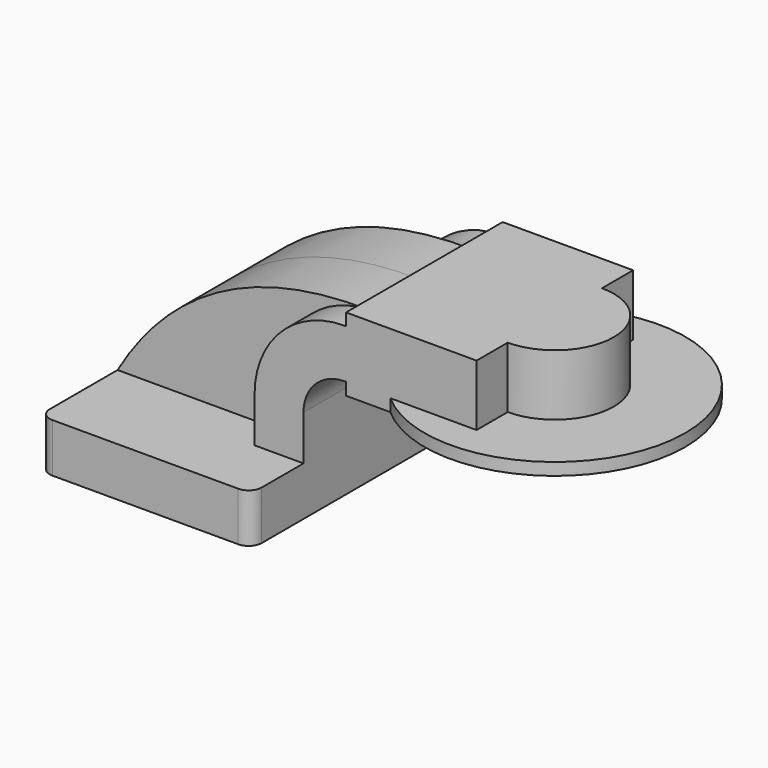
from build123d import *

# Parameters (mm, degrees)
F1_DEPTH = 63.5
F2_DEPTH = 25.4
F0_W     = 27.8559744183
F0_H     = 4.7498
F0_H_2   = 19.05
F3_DEPTH = 38.1
F4_DEPTH = 25.4
F6_R     = 5.08


with BuildPart() as f1:
    # F0 (on Front) → F1 (new body, symmetric)
    with BuildSketch(Plane.XZ):
        Polygon((-41.275, 9.525), (-41.275, -9.525), (41.275, -9.525), (41.275, 9.525), (22.225, 9.525), align=None)
    extrude(amount=F1_DEPTH, both=True)

    # F0 (on Front) → F2 (join, symmetric)
    with BuildSketch(Plane.XZ):
        with BuildLine():
            add(Edge.make_bspline(
                [(-41.275, 9.525), (-19.7094231844, 46.5213470161), (14.027427882, 62.8570914268), (57.15, 61.9252)],
                knots=[0, 0, 0, 0, 111.5045361635, 111.5045361635, 111.5045361635, 111.5045361635], degree=3))
            Line((-41.275, 9.525), (22.225, 9.525))
            Line((22.225, 9.525), (22.225, 27.0002))
            ThreePointArc((22.225, 27.0002), (32.4542956671, 51.6959043329), (57.15, 61.9252))
        make_face()
    extrude(amount=F2_DEPTH, both=True)

    # F0 (on Front) → F3 (join, symmetric)
    with BuildSketch(Plane.XZ):
        Polygon((85.725, 42.8752), (57.8690255817, 42.8752), (57.8690255817, 38.1), (108.6690255817, 38.1), (108.6690255817, 66.675), (85.725, 66.675), (85.725, 61.9252), align=None)
        with BuildLine():
            Line((22.225, 9.525), (41.275, 9.525))
            Line((41.275, 9.525), (41.275, 27.0002))
            ThreePointArc((41.275, 27.0002), (45.9246798487, 38.2255201513), (57.15, 42.8752))
            Line((57.15, 42.8752), (57.8690255817, 42.8752))
            Line((57.8690255817, 42.8752), (57.8690255817, 61.9252))
            Line((57.8690255817, 61.9252), (57.15, 61.9252))
            ThreePointArc((57.15, 61.9252), (32.4542956671, 51.6959043329), (22.225, 27.0002))
            Line((22.225, 27.0002), (22.225, 9.525))
        make_face()
        with Locations((71.7970127909, 64.3001)):
            Rectangle(F0_W, F0_H)
        with Locations((71.7970127909, 52.4002)):
            Rectangle(F0_W, F0_H_2)
    extrude(amount=F3_DEPTH, both=True)

    # F0 (on Front) → F4 (join)
    with BuildSketch(Plane.XZ):
        Polygon((-41.275, 9.525), (-41.275, -9.525), (41.275, -9.525), (41.275, 9.525), (22.225, 9.525), align=None)
        with BuildLine():
            add(Edge.make_bspline(
                [(-41.275, 9.525), (-19.7094231844, 46.5213470161), (14.027427882, 62.8570914268), (57.15, 61.9252)],
                knots=[0, 0, 0, 0, 111.5045361635, 111.5045361635, 111.5045361635, 111.5045361635], degree=3))
            Line((-41.275, 9.525), (22.225, 9.525))
            Line((22.225, 9.525), (22.225, 27.0002))
            ThreePointArc((22.225, 27.0002), (32.4542956671, 51.6959043329), (57.15, 61.9252))
        make_face()
        with BuildLine():
            Line((22.225, 9.525), (41.275, 9.525))
            Line((41.275, 9.525), (41.275, 27.0002))
            ThreePointArc((41.275, 27.0002), (45.9246798487, 38.2255201513), (57.15, 42.8752))
            Line((57.15, 42.8752), (57.8690255817, 42.8752))
            Line((57.8690255817, 42.8752), (57.8690255817, 61.9252))
            Line((57.8690255817, 61.9252), (57.15, 61.9252))
            ThreePointArc((57.15, 61.9252), (32.4542956671, 51.6959043329), (22.225, 27.0002))
            Line((22.225, 27.0002), (22.225, 9.525))
        make_face()
        with Locations((71.7970127909, 52.4002)):
            Rectangle(F0_W, F0_H_2)
        with Locations((71.7970127909, 64.3001)):
            Rectangle(F0_W, F0_H)
        Polygon((85.725, 42.8752), (57.8690255817, 42.8752), (57.8690255817, 38.1), (108.6690255817, 38.1), (108.6690255817, 66.675), (85.725, 66.675), (85.725, 61.9252), align=None)
    extrude(amount=F4_DEPTH)

    # F0 (on Front) → F5 (revolve)
    with BuildSketch(Plane.XZ):
        Polygon((85.725, 42.8752), (57.8690255817, 42.8752), (57.8690255817, 38.1), (108.6690255817, 38.1), (108.6690255817, 66.675), (85.725, 66.675), (85.725, 61.9252), align=None)
    revolve(axis=Axis((108.6690255817, 0, 52.3875), (0, 0, 1)))

    # F6
    f6_edges = [f1.edges().sort_by_distance(p)[0] for p in [
        (-41.275, 63.5, 0),
        (41.275, 63.5, 0),
        (-41.275, -63.5, 0),
        (41.275, -63.5, 0),
    ]]
    fillet(f6_edges, radius=F6_R)


solid = f1.part
